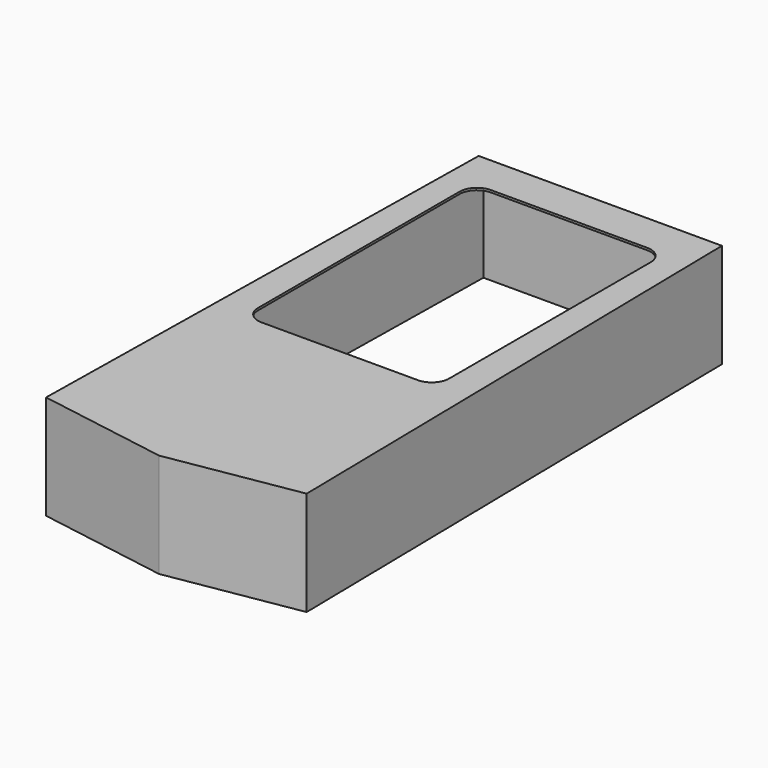
from build123d import *

# Parameters (mm, degrees)
F1_DEPTH = 152.4
F3_DEPTH = 149.225
F5_DEPTH = 25.4


with BuildPart() as f1:
    # F0 (on Top) → F1 (new body)
    with BuildSketch(Plane.XY):
        Polygon((-177.8, 774.7), (-190.5, 0), (190.5, 0), (177.8, 774.7), align=None)
        Polygon((190.5, 0), (-190.5, 0), (0, -31.75), align=None)
    extrude(amount=F1_DEPTH)

    # F2 (on face) → F3 (cut)
    with BuildSketch(Plane(origin=(0, 0, 0), x_dir=(1, 0, 0), z_dir=(0, 0, -1))):
        Polygon((0, 28.5312048277), (-180.9470539995, -1.6266375055), (-168.3257693684, -771.525), (168.3257693684, -771.525), (180.9470539995, -1.6266375055), align=None)
    extrude(amount=-F3_DEPTH, mode=Mode.SUBTRACT)

    # F4 (on face) → F5 (cut)
    with BuildSketch(Plane.XY.offset(152.4)):
        with BuildLine():
            Line((114.3, 717.55), (-114.3, 717.55))
            ThreePointArc((-114.3, 717.55), (-132.2605122421, 710.1105122421), (-139.7, 692.15))
            Line((-139.7, 692.15), (-139.7, 323.85))
            ThreePointArc((-139.7, 323.85), (-132.2605122421, 305.8894877579), (-114.3, 298.45))
            Line((-114.3, 298.45), (114.3, 298.45))
            ThreePointArc((114.3, 298.45), (132.2605122421, 305.8894877579), (139.7, 323.85))
            Line((139.7, 323.85), (139.7, 692.15))
            ThreePointArc((139.7, 692.15), (132.2605122421, 710.1105122421), (114.3, 717.55))
        make_face()
    extrude(amount=-F5_DEPTH, mode=Mode.SUBTRACT)


solid = f1.part
